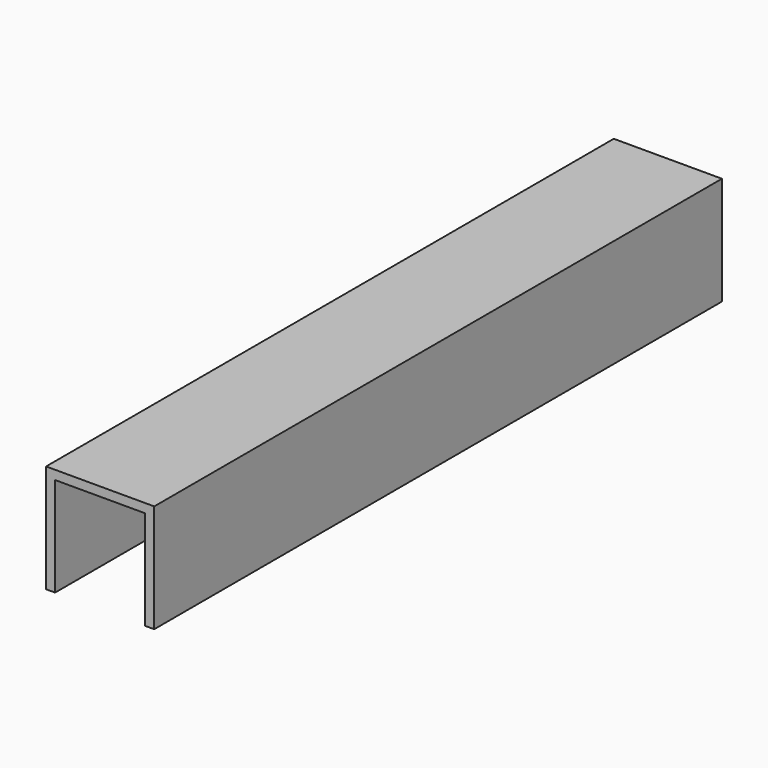
from build123d import *

# Parameters (mm, degrees)
F1_DEPTH      = 125
F1_DEPTH_BACK = 125


with BuildPart() as f1:
    # F0 (on Front) → F1 (new body, two sides)
    with BuildSketch(Plane.XZ) as f1_sk:
        Polygon((15.87, -19.05), (19.05, -19.05), (19.05, 19.05), (-19.05, 19.05), (-19.05, -19.05), (-15.87, -19.05), (-15.87, 15.87), (15.87, 15.87), align=None)
    extrude(amount=F1_DEPTH)
    extrude(f1_sk.sketch, amount=-F1_DEPTH_BACK)


solid = f1.part
